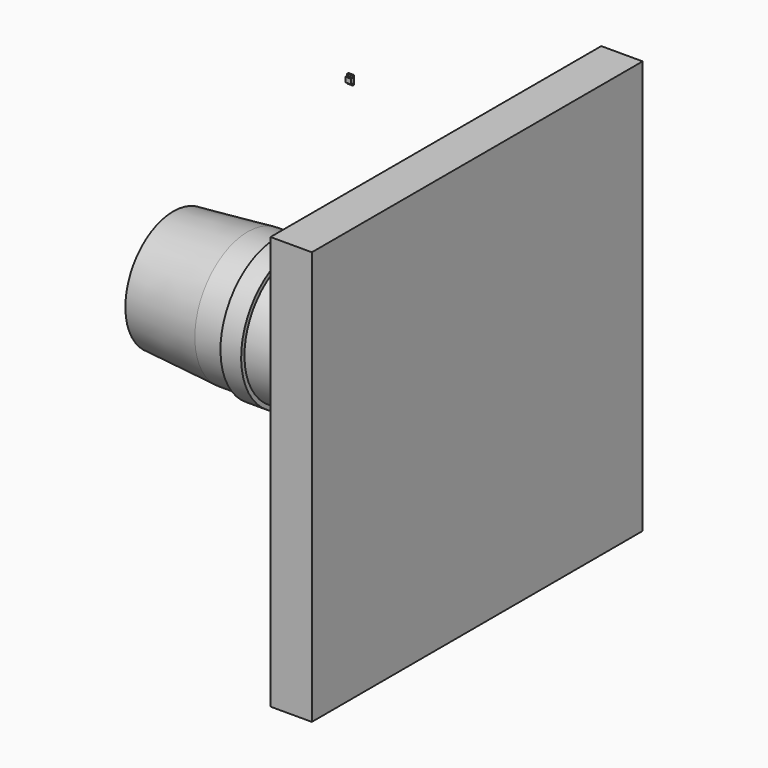
from build123d import *

# Parameters (mm, degrees)
F3_W      = 10
F3_H      = 100
F4_DEPTH  = 50
F7_W      = 1.35
F7_H      = 2.1
F8_DEPTH  = 0.4
F9_W      = 1.35
F9_H      = 1.2
F10_DEPTH = 0.5


with BuildPart() as f2:
    # F0 (on Front) → F2 (revolve)
    with BuildSketch(Plane.XZ):
        Polygon((0, 14.5), (0, 0), (57.4, 0), (57.4, 4.5), (57.5, 4.5), (57.5, 6), (57.2, 6), (57.2, 6.75), (57.5, 6.75), (57.5, 8), (54.2, 12.75), (52.5, 12.75), (52.5, 14.5), (30, 16), (30, 17), (25, 17), (25, 16), (18, 16), align=None)
    revolve(axis=Axis((30.165957, 0, 0), (1, 0, 0)))


with BuildPart() as f4:
    # F3 (on Top) → F4 (new body, symmetric)
    with BuildSketch(Plane.XY):
        with Locations((68.5, 0)):
            Rectangle(F3_W, F3_H)
    extrude(amount=F4_DEPTH, both=True)


with BuildPart() as f6:
    # F5 (on Front) → F6 (revolve)
    with BuildSketch(Plane.XZ):
        Polygon((57.6, 8.1), (57.6, 5.7), (58.1, 5.7), (58.1, 11.7), (55.1, 11.7), align=None)
    revolve(axis=Axis((54.094689, 0, 0), (-1, 0, 0)))


with BuildPart() as f8:
    # F7 (on Front) → F8 (new body)
    with BuildSketch(Plane.XZ):
        with Locations((43.055139, 56.683564)):
            Rectangle(F7_W, F7_H)
    extrude(amount=F8_DEPTH)

    # F9 (on face) → F10 (join)
    with BuildSketch(Plane.XZ.offset(0.4)):
        with Locations((43.055139, 56.683564)):
            Rectangle(F9_W, F9_H)
    extrude(amount=F10_DEPTH)


solid = Compound([f2.part, f4.part, f6.part, f8.part])
